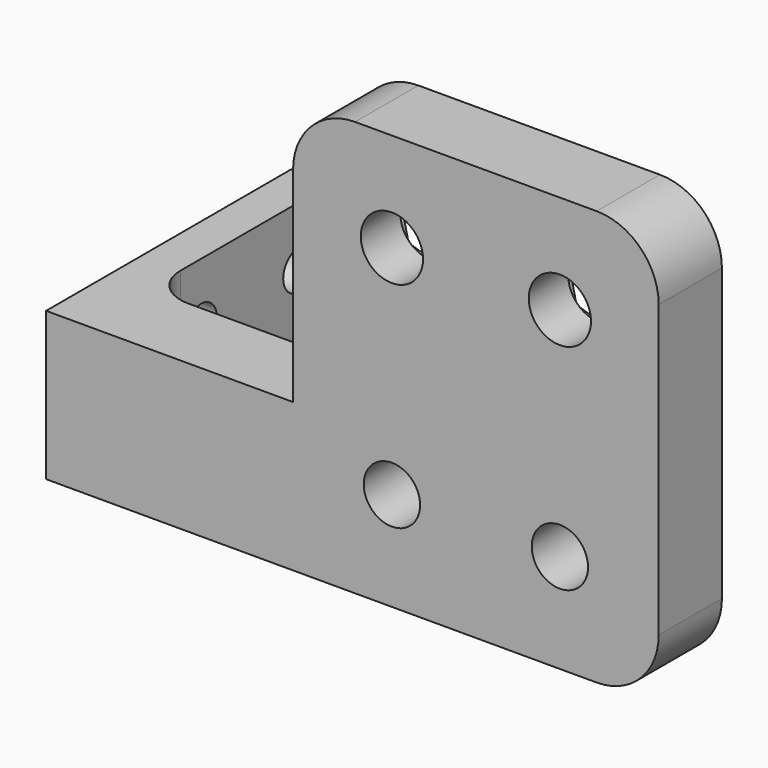
from build123d import *

# Parameters (mm, degrees)
F0_R     = 1.425
F0_R_2   = 1.575
F1_DEPTH = 4
F3_DEPTH = 1.5
F4_R     = 3.138478
F0_W     = 2
F0_H     = 7.5
F0_W_2   = 10.5
F5_DEPTH = 4
F6_DEPTH = 15.5
F7_R     = 1
F8_DEPTH = 3
F9_R     = 2


with BuildPart() as f1:
    # F0 (on Front) → F1 (new body)
    with BuildSketch(Plane.XZ):
        Polygon((5, 13.5), (-13.5, 13.5), (-13.5, 0), (-13.5, -7.5), (5, -7.5), align=None)
        with Locations((-8.5, -2.5)):
            Circle(F0_R, mode=Mode.SUBTRACT)
        with Locations((0, -2.5)):
            Circle(F0_R, mode=Mode.SUBTRACT)
        with Locations((-8.5, 8.5)):
            Circle(F0_R_2, mode=Mode.SUBTRACT)
        with Locations((0, 8.5)):
            Circle(F0_R_2, mode=Mode.SUBTRACT)
    extrude(amount=-F1_DEPTH)

    # F2 (on face) → F3 (cut)
    with BuildSketch(Plane(origin=(0, 4, 0), x_dir=(-1, 0, 0), z_dir=(0, 1, 0))):
        Polygon((-0.699741, 5.373043), (2.358154, 6.330527), (3.057895, 9.457485), (0.699741, 11.626957), (-2.358154, 10.669473), (-3.057895, 7.542515), align=None)
        Polygon((7.800259, 5.373043), (10.858154, 6.330527), (11.557895, 9.457485), (9.199741, 11.626957), (6.141846, 10.669473), (5.442105, 7.542515), align=None)
    extrude(amount=-F3_DEPTH, mode=Mode.SUBTRACT)

    # F4
    f4_edges = [f1.edges().sort_by_distance(p)[0] for p in [
        (5, 2, 13.5),
        (-13.5, 2, 13.5),
        (5, 2, -7.5),
    ]]
    fillet(f4_edges, radius=F4_R)

    # F0 (on Front) → F5 (join)
    with BuildSketch(Plane.XZ):
        with Locations((-25, -3.75)):
            Rectangle(F0_W, F0_H)
        with Locations((-18.75, -3.75)):
            Rectangle(F0_W_2, F0_H)
    extrude(amount=-F5_DEPTH)

    # F0 (on Front) → F6 (join)
    with BuildSketch(Plane.XZ):
        with Locations((-25, -3.75)):
            Rectangle(F0_W, F0_H)
    extrude(amount=-F6_DEPTH)

    # F7 (on face) → F8 (cut)
    with BuildSketch(Plane(origin=(-26, 0, 0), x_dir=(0, -1, 0), z_dir=(-1, 0, 0))):
        with Locations((-13.5, -3)):
            Circle(F7_R)
        with Locations((-7.3, -3)):
            Circle(F7_R)
    extrude(amount=-F8_DEPTH, mode=Mode.SUBTRACT)

    # F9
    f9_edges = [f1.edges().sort_by_distance(p)[0] for p in [
        (-24, 4, -3.75),
    ]]
    fillet(f9_edges, radius=F9_R)


solid = f1.part
